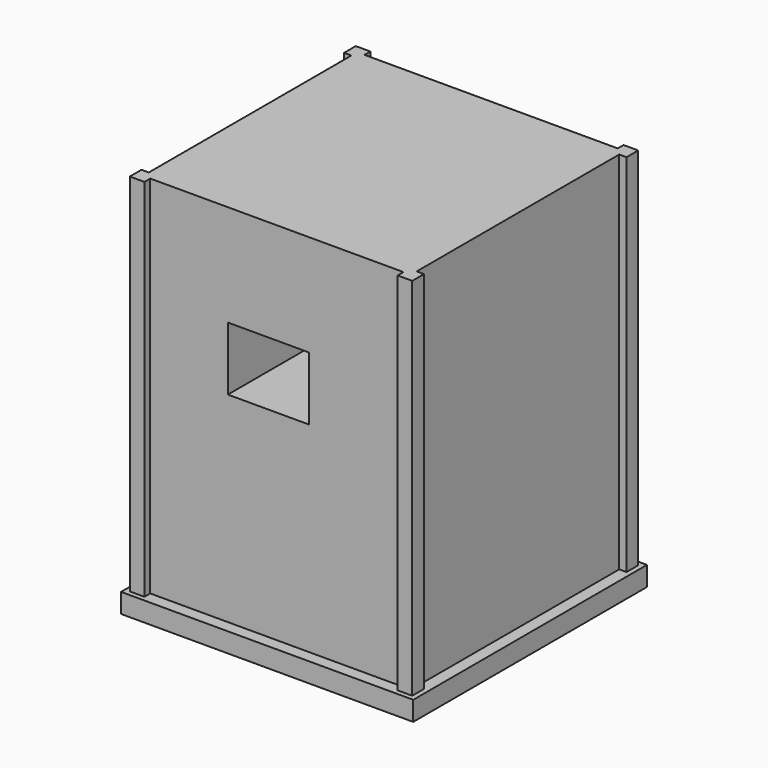
from build123d import *

# Parameters (mm, degrees)
F0_W     = 76.2
F0_H     = 76.2
F1_DEPTH = 5.08
F2_W     = 69.85
F2_H     = 69.85
F3_DEPTH = 95.25
F4_W     = 3.81
F4_H     = 3.81
F5_DEPTH = 100.33
F6_W     = 21.172609
F6_H     = 16.548711
F7_DEPTH = 73.026


with BuildPart() as f1:
    # F0 (on Top) → F1 (new body)
    with BuildSketch(Plane.XY):
        Rectangle(F0_W, F0_H)
    extrude(amount=F1_DEPTH)

    # F2 (on face) → F3 (join)
    with BuildSketch(Plane.XY.offset(5.08)):
        Rectangle(F2_W, F2_H)
    extrude(amount=F3_DEPTH)

    # F4 (on Top) → F5 (join)
    with BuildSketch(Plane.XY):
        with Locations((34.925, -34.925)):
            Rectangle(F4_W, F4_H)
        with Locations((-34.925, -34.925)):
            Rectangle(F4_W, F4_H)
        with Locations((-34.925, 34.925)):
            Rectangle(F4_W, F4_H)
        with Locations((34.925, 34.925)):
            Rectangle(F4_W, F4_H)
    extrude(amount=F5_DEPTH)

    # F6 (on face) → F7 (cut, through all)
    with BuildSketch(Plane.XZ.offset(34.925)):
        with Locations((-2.19027, 65.586423)):
            Rectangle(F6_W, F6_H)
    extrude(amount=-F7_DEPTH, mode=Mode.SUBTRACT)


solid = f1.part
